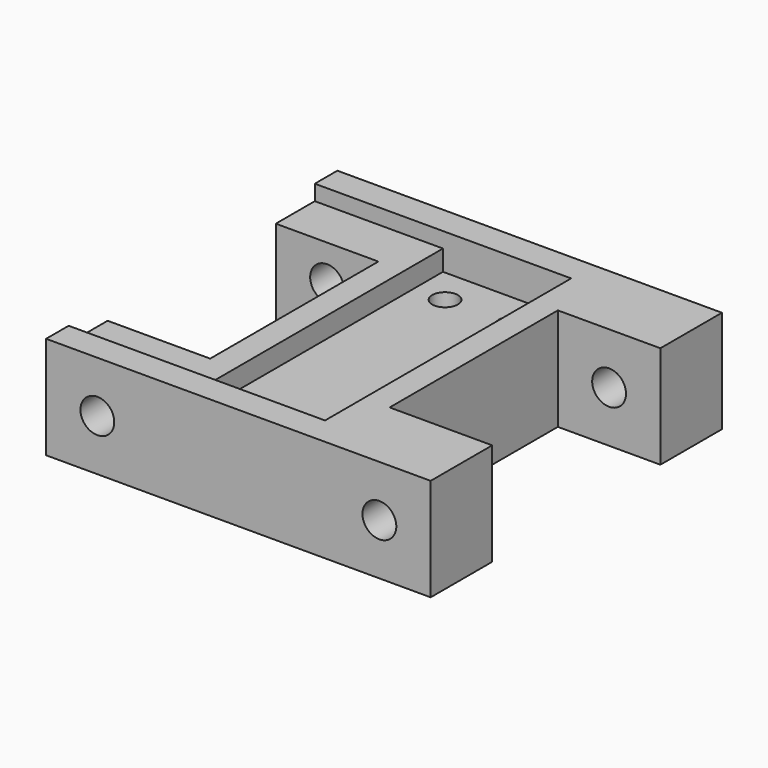
from build123d import *

# Parameters (mm, degrees)
F1_DEPTH       = 20
F2_W           = 12.5
F2_H           = 30
F3_DEPTH       = 7
F4_DEPTH       = 3
F7_D           = 6.6
F7_DEPTH       = 15.001
F7_ON_F5_D     = 6.6
F7_ON_F5_DEPTH = 15.001
F9_D           = 5


with BuildPart() as f1:
    # F0 (on Top) → F1 (new body)
    with BuildSketch(Plane.XY):
        Polygon((37.5, 35.5), (-37.5, 35.5), (-37.5, 20.5), (-17.5, 20.5), (-17.5, 0), (-17.5, -20.5), (-37.5, -20.5), (-37.5, -35.5), (37.5, -35.5), (37.5, -20.5), (17.5, -20.5), (17.5, 0), (17.5, 20.5), (37.5, 20.5), align=None)
    extrude(amount=F1_DEPTH)

    # F2 (on face) → F3 (cut)
    with BuildSketch(Plane.XY.offset(20)):
        with Locations((-6.25, 15)):
            Rectangle(F2_W, F2_H)
        Polygon((0, 30), (0, 0), (-12.5, 0), (-12.5, -30), (0, -30), (12.5, -30), (12.5, 0), (12.5, 30), align=None)
    extrude(amount=-F3_DEPTH, mode=Mode.SUBTRACT)

    # F2 (on face) → F4 (cut)
    with BuildSketch(Plane.XY.offset(20)):
        Polygon((-12.5, -30), (-12.5, 0), (-12.5, 30), (-37.5, 30), (-37.5, 20.5), (-17.5, 20.5), (-17.5, -20.5), (-37.5, -20.5), (-37.5, -30), align=None)
    extrude(amount=-F4_DEPTH, mode=Mode.SUBTRACT)

    # F7 (through all, one way)
    with BuildSketch(Plane(origin=(0, -20.5, 0), x_dir=(-1, 0, 0), z_dir=(0, 1, 0))):
        with Locations((27.5, 10), (-27.5, 10)):
            Circle(F7_D / 2)
    extrude(amount=-F7_DEPTH, mode=Mode.SUBTRACT)

    # F7 on F5 (through all, one way)
    with BuildSketch(Plane.XZ.offset(-20.5)):
        with Locations((-27.5, 10), (27.5, 10)):
            Circle(F7_ON_F5_D / 2)
    extrude(amount=-F7_ON_F5_DEPTH, mode=Mode.SUBTRACT)

    # F9 (through all)
    with Locations(Plane.XY.offset(20)):
        with Locations((-6.5, 23), (6.5, 23), (6.5, -23), (-6.5, -23)):
            Hole(F9_D / 2)


solid = f1.part
